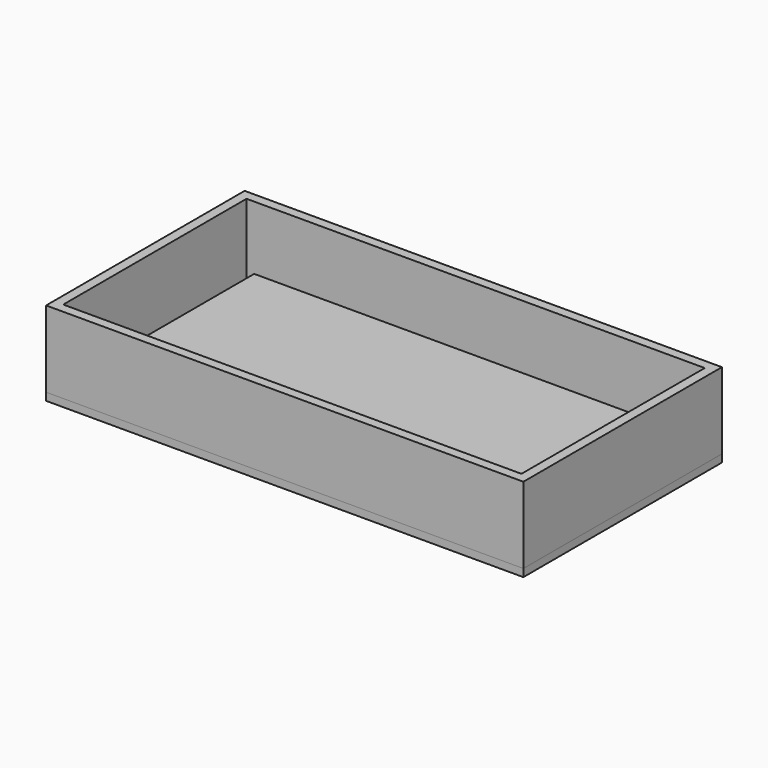
from build123d import *

# Parameters (mm, degrees)
F0_W     = 158.75
F0_H     = 82.55
F0_W_2   = 152.4
F0_H_2   = 76.2
F1_DEPTH = 25.4
F0_W_3   = 127
F0_H_3   = 50.8
F2_DEPTH = 12.7
F3_W     = 158.75
F3_H     = 82.55
F4_DEPTH = 2.54


with BuildPart() as f1:
    # F0 (on Top) → F1 (new body)
    with BuildSketch(Plane.XY):
        Rectangle(F0_W, F0_H)
        Rectangle(F0_W_2, F0_H_2, mode=Mode.SUBTRACT)
    extrude(amount=F1_DEPTH)


with BuildPart() as f2:
    # F0 (on Top) → F2 (new body)
    with BuildSketch(Plane.XY):
        Rectangle(F0_W_3, F0_H_3)
    extrude(amount=F2_DEPTH)


with BuildPart() as f4:
    # F3 (on Top) → F4 (new body)
    with BuildSketch(Plane.XY):
        Rectangle(F3_W, F3_H)
    extrude(amount=-F4_DEPTH)


solid = Compound([f1.part, f2.part, f4.part])
